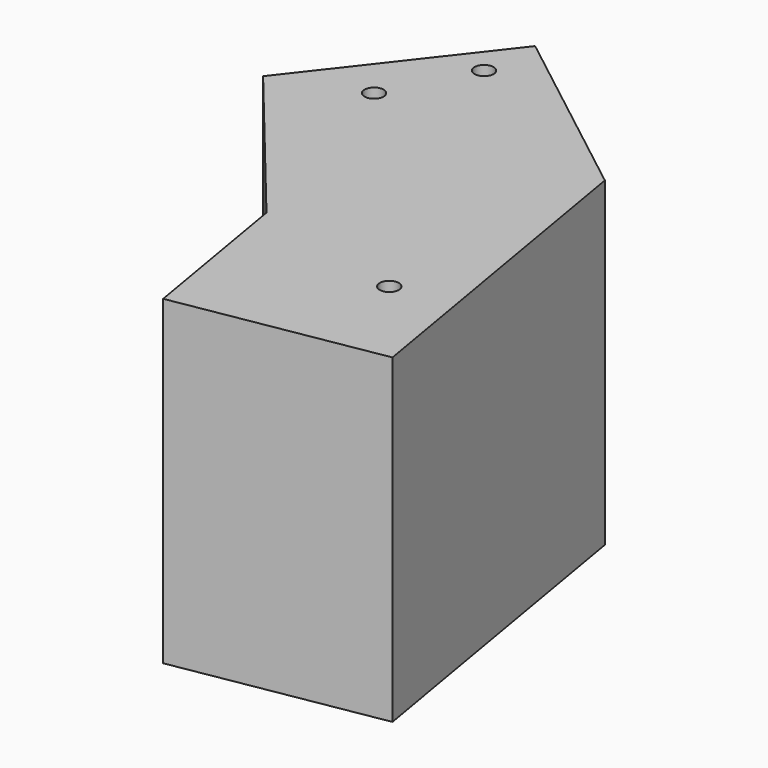
from build123d import *

# Parameters (mm, degrees)
F1_DEPTH = 34.544
F3_D     = 4.1
F3_DEPTH = 12.7
F3_TIP   = 1.231764269


with BuildPart() as f1:
    # F0 (on Top) → F1 (new body, symmetric)
    with BuildSketch(Plane.XY):
        Polygon((-13.8865606859, 60.4830309749), (-42.757101357, 23.3497414738), (-11.2690485742, -15.0952798912), (-5.2401868215, -50.4424741696), (38.2038913667, -43.0325977504), (25.8125865485, 29.6175768167), align=None)
    extrude(amount=F1_DEPTH, both=True)

    # F3
    with Locations(Plane.XY.offset(34.544)):
        with Locations((-15.0234112516, 48.1616705656), (-24.3386197835, 30.192643404), (21.6382276267, -23.181784898)):
            Hole(F3_D / 2, depth=F3_DEPTH)
            with Locations((0, 0, -(F3_DEPTH + F3_TIP / 2))):  # 118° drill point
                Cone(0, F3_D / 2, F3_TIP, mode=Mode.SUBTRACT)


solid = f1.part
